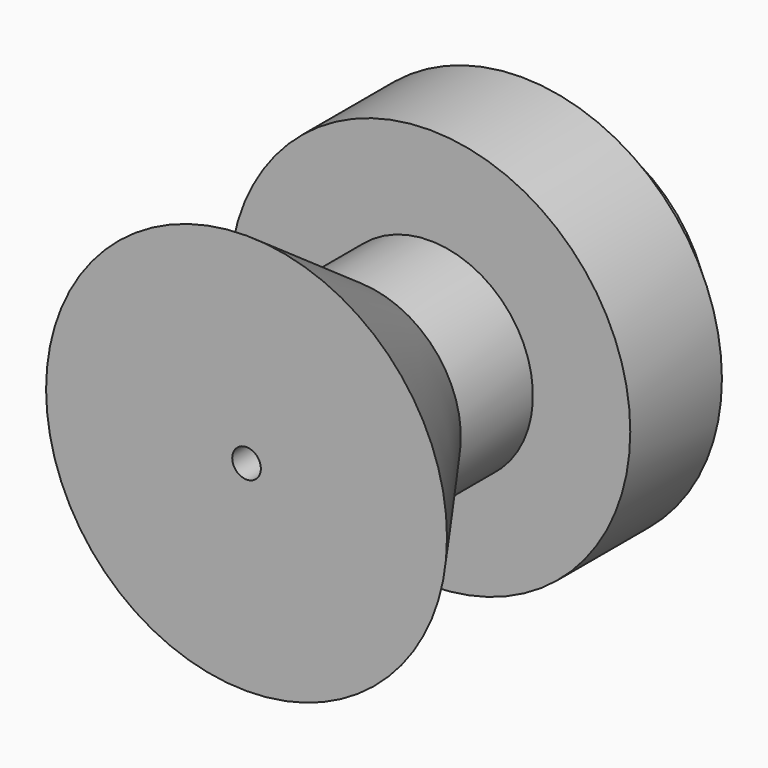
from build123d import *

# Parameters (mm, degrees)
F2_R     = 2.5
F3_DEPTH = 70.001


with BuildPart() as f1:
    # F0 (on Top) → F1 (revolve)
    with BuildSketch(Plane.XY):
        Polygon((0, -30), (0, 0), (0, 40), (-25, 40), (-25, 30), (-35, 30), (-35, 10), (-18, 10), (-18, -5.721484), (-35, -30), align=None)
    revolve(axis=Axis((0, 20, 0), (0, 1, 0)))

    # F2 (on face) → F3 (cut, through all)
    with BuildSketch(Plane(origin=(0, 40, 0), x_dir=(-1, 0, 0), z_dir=(0, 1, 0))):
        Circle(F2_R)
    extrude(amount=-F3_DEPTH, mode=Mode.SUBTRACT)


solid = f1.part
